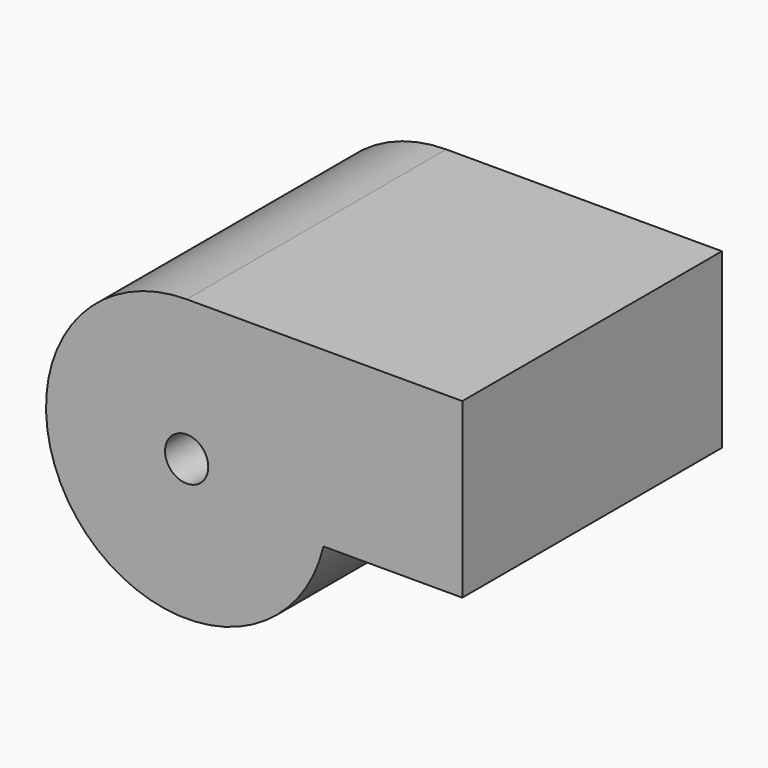
from build123d import *

# Parameters (mm, degrees)
F0_R     = 1
F1_DEPTH = 7.5


with BuildPart() as f1:
    # F0 (on Front) → F1 (new body, symmetric)
    with BuildSketch(Plane.XZ):
        with BuildLine():
            Line((0, 6.5), (-12.741024, 6.5))
            ThreePointArc((-12.741024, 6.5), (-17.840043, -4.031129), (-6.416469, -1.5))
            Line((-6.416469, -1.5), (0, -1.5))
            Line((0, -1.5), (0, 6.5))
        make_face()
        with Locations((-12.741024, 0)):
            Circle(F0_R, mode=Mode.SUBTRACT)
    extrude(amount=F1_DEPTH, both=True)


solid = f1.part
